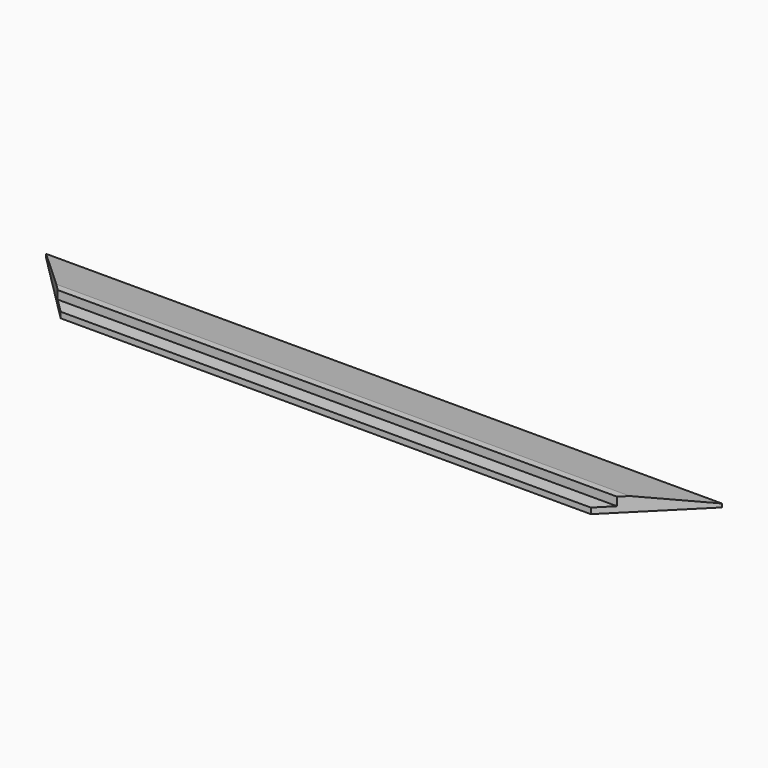
from build123d import *

# Parameters (mm, degrees)
F0_W     = 12.5
F0_H     = 3
F0_W_2   = 6
F0_H_2   = 2
F0_W_3   = 44
F0_H_3   = 6
F0_H_4   = 1.2
F1_DEPTH = 580
F3_DEPTH = 50
F5_DEPTH = 50


with BuildPart() as f1:
    # F0 (on Right) → F1 (new body)
    with BuildSketch(Plane.YZ):
        with Locations((6.25, 1.5)):
            Rectangle(F0_W, F0_H)
        with Locations((15.5, 1.5)):
            Rectangle(F0_W_2, F0_H)
        with Locations((6.25, 4)):
            Rectangle(F0_W, F0_H_2)
        with Locations((40.5, 1.5)):
            Rectangle(F0_W_3, F0_H)
        with Locations((15.5, 4)):
            Rectangle(F0_W_2, F0_H_2)
        Polygon((18.5, 5), (18.5, 3), (62.5, 3), (52.9347826087, 5), align=None)
        with Locations((15.5, 8)):
            Rectangle(F0_W_2, F0_H_3)
        Polygon((18.5, 11), (18.5, 5), (52.9347826087, 5), (24.2391304348, 11), align=None)
        with Locations((15.5, 11.6)):
            Rectangle(F0_W_2, F0_H_4)
        Polygon((18.5, 12.2), (18.5, 11), (24.2391304348, 11), align=None)
    extrude(amount=F1_DEPTH)

    # F2 (on Top) → F3 (cut, symmetric)
    with BuildSketch(Plane.XY):
        Polygon((0, 62.5), (0, 0), (62.5, 0), align=None)
    extrude(amount=F3_DEPTH, both=True, mode=Mode.SUBTRACT)

    # F4 (on Top) → F5 (cut, symmetric)
    with BuildSketch(Plane.XY):
        Polygon((580, 62.5), (517.5, 0), (580, 0), align=None)
    extrude(amount=F5_DEPTH, both=True, mode=Mode.SUBTRACT)


solid = f1.part
